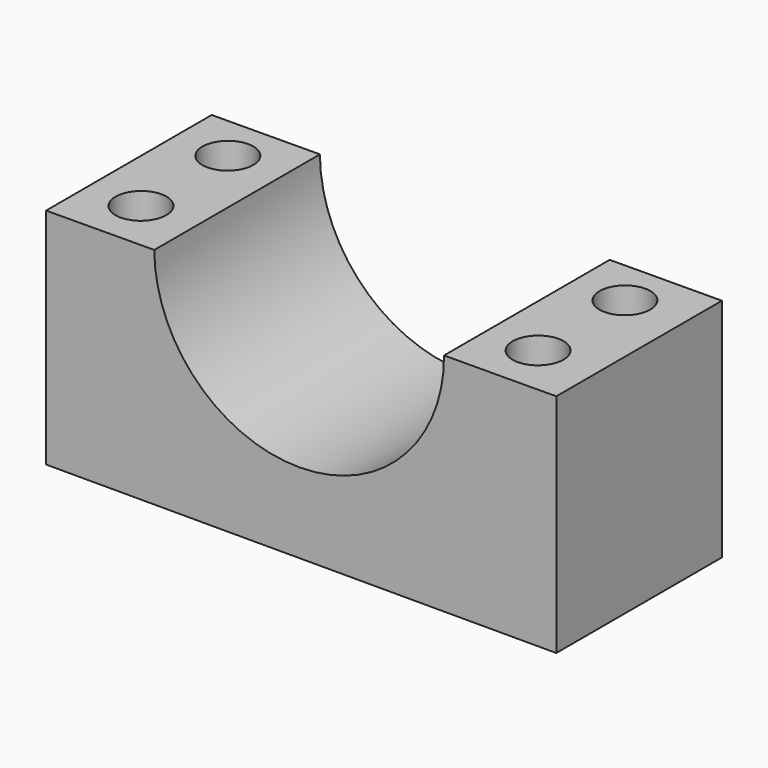
from build123d import *

# Parameters (mm, degrees)
F1_DEPTH = 25.4
F2_R     = 3.1148890727
F3_DEPTH = 27.7119707165


with BuildPart() as f1:
    # F0 (on Front) → F1 (new body)
    with BuildSketch(Plane.XZ):
        with BuildLine():
            Line((-17.7745768782, 34.7895135615), (-31.0488212854, 34.7268991172))
            Line((-31.0488212854, 34.7268991172), (-31.0488212854, 7.2915516794))
            Line((-31.0488212854, 7.2915516794), (31.548384577, 7.2915516794))
            Line((31.548384577, 7.2915516794), (31.548384577, 35.0221693516))
            Line((31.548384577, 35.0221693516), (17.7745768782, 34.9571984735))
            ThreePointArc((17.7745768782, 34.9571984735), (0.083842456, 17.0987791393), (-17.7745768782, 34.7895135615))
        make_face()
    extrude(amount=F1_DEPTH)

    # F2 (on face) → F3 (cut, through all)
    with BuildSketch(Plane(origin=(-0.1644935226, 0, 34.8725801036), x_dir=(0.9999888752, 0, 0.004716935), z_dir=(-0.004716935, 0, 0.9999888752))):
        with Locations((-24.3531558663, -5.6908838451)):
            Circle(F2_R)
        with Locations((-24.3531558663, -19.0103072673)):
            Circle(F2_R)
        with Locations((24.3677906692, -5.6908838451)):
            Circle(F2_R)
        with Locations((24.3677906692, -19.0103072673)):
            Circle(F2_R)
    extrude(amount=-F3_DEPTH, mode=Mode.SUBTRACT)


solid = f1.part
